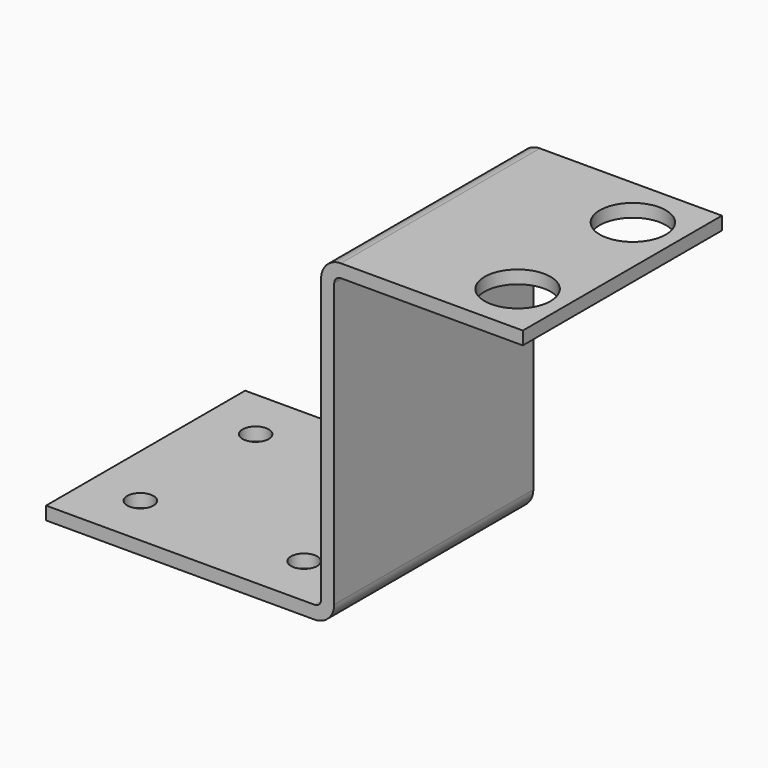
from build123d import *

# Parameters (mm, degrees)
F1_DEPTH = 60.325
F2_R     = 8.001
F3_DEPTH = 25.4
F4_R     = 3.175
F5_DEPTH = 25.4


with BuildPart() as f1:
    # F0 (on Front) → F1 (new body)
    with BuildSketch(Plane.XZ):
        with BuildLine():
            Line((-4.7625, 3.175), (-69.85, 3.175))
            Line((-69.85, 3.175), (-69.85, 0))
            Line((-69.85, 0), (-4.7625, 0))
            ThreePointArc((-4.7625, 0), (-1.394904, 1.394904), (0, 4.7625))
            Line((0, 4.7625), (0, 73.3425))
            ThreePointArc((0, 73.3425), (0.464968, 74.465032), (1.5875, 74.93))
            Line((1.5875, 74.93), (45.72, 74.93))
            Line((45.72, 74.93), (45.72, 78.105))
            Line((45.72, 78.105), (1.5875, 78.105))
            ThreePointArc((1.5875, 78.105), (-1.780096, 76.710096), (-3.175, 73.3425))
            Line((-3.175, 73.3425), (-3.175, 4.7625))
            ThreePointArc((-3.175, 4.7625), (-3.639968, 3.639968), (-4.7625, 3.175))
        make_face()
    extrude(amount=F1_DEPTH)

    # F2 (on face) → F3 (cut)
    with BuildSketch(Plane.XY.offset(78.105)):
        with Locations((34.29, -12.7)):
            Circle(F2_R)
        with Locations((34.29, -47.625)):
            Circle(F2_R)
    extrude(amount=-F3_DEPTH, mode=Mode.SUBTRACT)

    # F4 (on face) → F5 (cut)
    with BuildSketch(Plane.XY.offset(3.175)):
        with Locations((-57.15, -12.7)):
            Circle(F4_R)
        with Locations((-17.4625, -12.7)):
            Circle(F4_R)
        with Locations((-17.4625, -47.625)):
            Circle(F4_R)
        with Locations((-57.15, -47.625)):
            Circle(F4_R)
    extrude(amount=-F5_DEPTH, mode=Mode.SUBTRACT)


solid = f1.part
